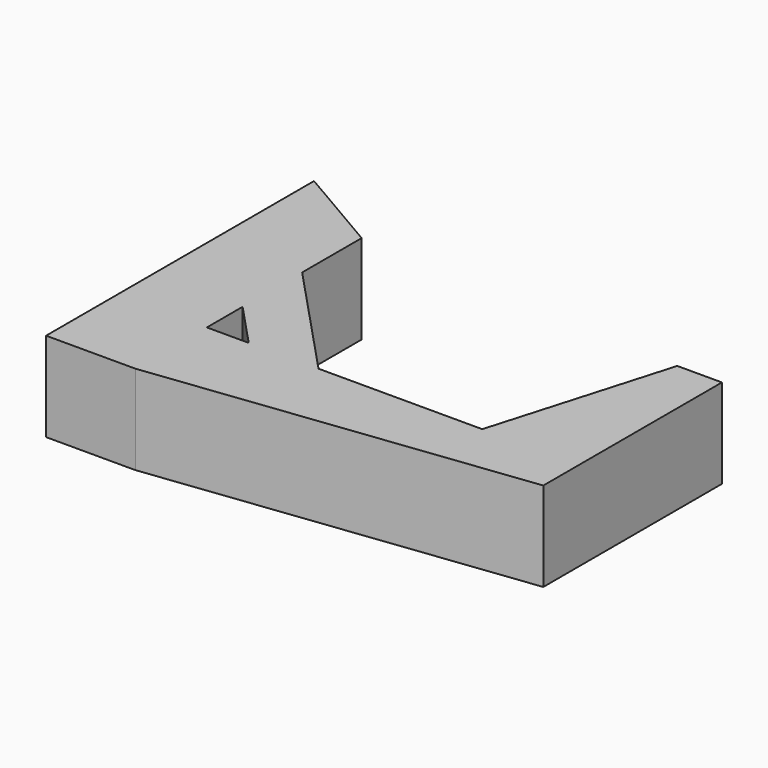
from build123d import *

# Parameters (mm, degrees)
F0_W     = 7.62
F0_H     = 30.48
F1_DEPTH = 15.24


with BuildPart() as f1:
    # F0 (on Top) → F1 (new body)
    with BuildSketch(Plane.XY):
        Polygon((15.24, 48.26), (0, 57.15), (0, 0), (15.24, 0), (15.24, 15.24), (15.24, 22.86), (15.24, 35.56), align=None)
        Polygon((34.29, 15.24), (15.24, 35.56), (15.24, 22.86), (22.38375, 15.24), align=None)
        Polygon((15.24, 15.24), (15.24, 0), (78.74, 7.62), (78.74, 15.24), (71.12, 15.24), (62.23, 15.24), (34.29, 15.24), (22.38375, 15.24), align=None)
        Polygon((71.12, 45.72), (62.23, 15.24), (71.12, 15.24), align=None)
        with Locations((74.93, 30.48)):
            Rectangle(F0_W, F0_H)
    extrude(amount=F1_DEPTH)


solid = f1.part
